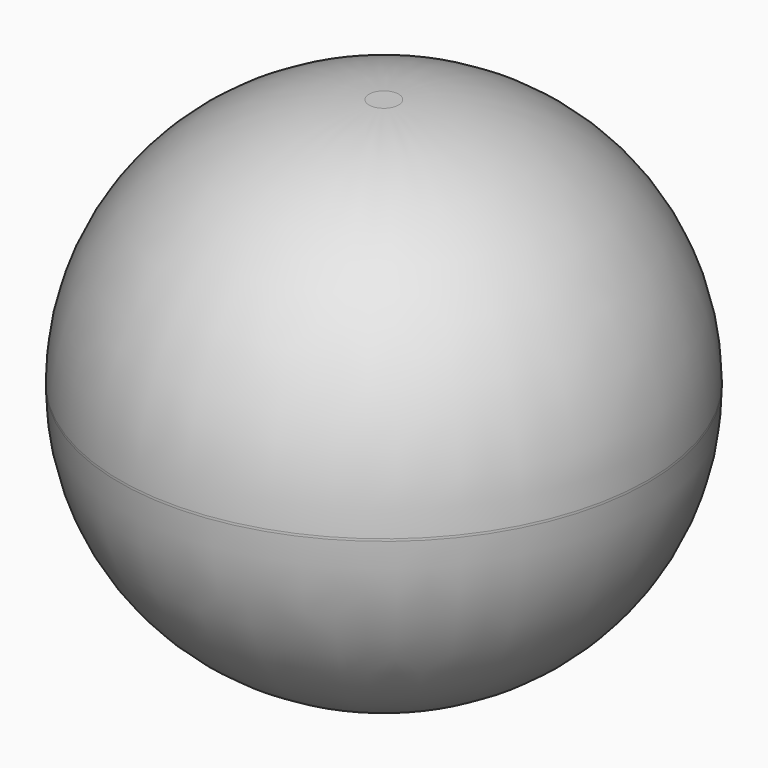
from build123d import *

# Parameters (mm, degrees)
F0_R      = 23.198683
F1_DEPTH  = 22
F2_R      = 21.9
F1_FACE_R = 23.198683
F3_DEPTH  = 22
F4_R      = 21.9


with BuildPart() as f1:
    # F0 (on Top) → F1 (new body)
    with BuildSketch(Plane.XY):
        Circle(F0_R)
    extrude(amount=F1_DEPTH)

    # F2
    f2_edges = [f1.edges().sort_by_distance(p)[0] for p in [
        (-23.198683, 0, 22),
    ]]
    fillet(f2_edges, radius=F2_R)

    # F1_face (on face) → F3 (join)
    with BuildSketch(Plane(origin=(0, 0, 0), x_dir=(1, 0, 0), z_dir=(0, 0, -1))):
        Circle(F1_FACE_R)
    extrude(amount=F3_DEPTH)

    # F4
    f4_edges = [f1.edges().sort_by_distance(p)[0] for p in [
        (-23.198683, 0, -22),
    ]]
    fillet(f4_edges, radius=F4_R)


solid = f1.part
